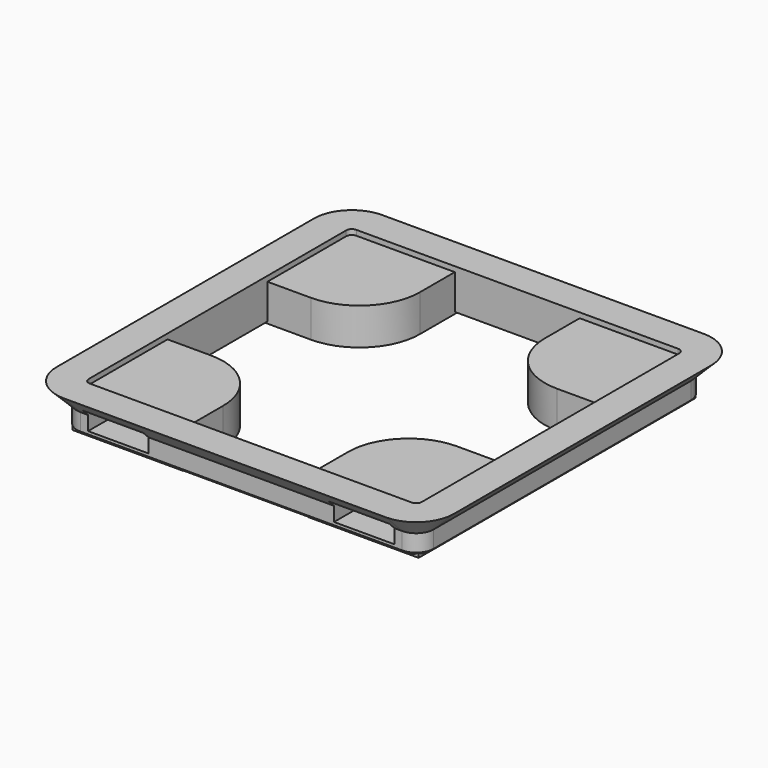
from build123d import *

# Parameters (mm, degrees)
PAD033_DEPTH    = 3.9
POCKET042_DEPTH = 2.2


with BuildPart() as part:
    # AdditivePipe007: sweep along a path in Sketch119
    with BuildLine(Plane.XY.offset(7.15)) as additivepipe007_path:
        ThreePointArc((42, 38), (40.828427, 40.828427), (38, 42))
        Line((38, 42), (4, 42))
        ThreePointArc((4, 42), (1.171573, 40.828427), (0, 38))
        Line((0, 38), (0, 4))
        ThreePointArc((0, 4), (1.171573, 1.171573), (4, 0))
        Line((4, 0), (38, 0))
        ThreePointArc((38, 0), (40.828427, 1.171573), (42, 4))
        Line((42, 4), (42, 38))
    # Sketch118 (on Sketch) → AdditivePipe007 (sweep)
    with BuildSketch(Plane.XZ.offset(-16)):
        Polygon((0, 7.15), (2.15, 5), (2.15, 3.2), (2.45, 2.9), (3.4, 2.9), (3.4, 7.15), align=None)
    sweep(path=additivepipe007_path.line)

    # Sketch138 → Pad033 (new body)
    with BuildSketch(Plane.XY.offset(2.7)):
        with BuildLine():
            Line((2.7, 27.6), (8, 27.6))
            ThreePointArc((8, 27.6), (12.525483, 29.474517), (14.4, 34))
            Line((14.4, 39.3), (14.4, 34))
            Line((14.4, 39.3), (2.7, 39.3))
            Line((2.7, 39.3), (2.7, 27.6))
        make_face()
        with BuildLine():
            Line((27.6, 39.3), (39.3, 39.3))
            Line((39.3, 39.3), (39.3, 27.6))
            Line((39.3, 27.6), (34, 27.6))
            ThreePointArc((27.6, 34), (29.474517, 29.474517), (34, 27.6))
            Line((27.6, 39.3), (27.6, 34))
        make_face()
        with BuildLine():
            Line((27.6, 8), (27.6, 2.7))
            Line((27.6, 2.7), (39.3, 2.7))
            Line((39.3, 2.7), (39.3, 14.4))
            Line((39.3, 14.4), (34, 14.4))
            ThreePointArc((34, 14.4), (29.474517, 12.525483), (27.6, 8))
        make_face()
        with BuildLine():
            Line((14.4, 8), (14.4, 2.7))
            Line((14.4, 2.7), (2.7, 2.7))
            Line((2.7, 2.7), (2.7, 14.4))
            Line((2.7, 14.4), (8, 14.4))
            ThreePointArc((14.4, 8), (12.525483, 12.525483), (8, 14.4))
        make_face()
    extrude(amount=PAD033_DEPTH)

    # Sketch149 → Pocket042 (cut)
    with BuildSketch(Plane.XY.offset(3.5)):
        with BuildLine():
            ThreePointArc((4.8, 34), (8, 30.8), (11.2, 34))
            Line((11.2, 34), (11.2, 42))
            Line((4.8, 42), (11.2, 42))
            Line((4.8, 34), (4.8, 42))
        make_face()
        with BuildLine():
            ThreePointArc((30.8, 34), (34, 30.8), (37.2, 34))
            Line((37.2, 34), (37.2, 42))
            Line((30.8, 42), (37.2, 42))
            Line((30.8, 34), (30.8, 42))
        make_face()
        with BuildLine():
            ThreePointArc((37.2, 8), (34, 11.2), (30.8, 8))
            Line((30.8, 8), (30.8, 0))
            Line((37.2, 0), (30.8, 0))
            Line((37.2, 8), (37.2, 0))
        make_face()
        with BuildLine():
            ThreePointArc((11.2, 8), (8, 11.2), (4.8, 8))
            Line((4.8, 8), (4.8, 0))
            Line((11.2, 0), (4.8, 0))
            Line((11.2, 8), (11.2, 0))
        make_face()
    extrude(amount=POCKET042_DEPTH, mode=Mode.SUBTRACT)


solid = part.part
